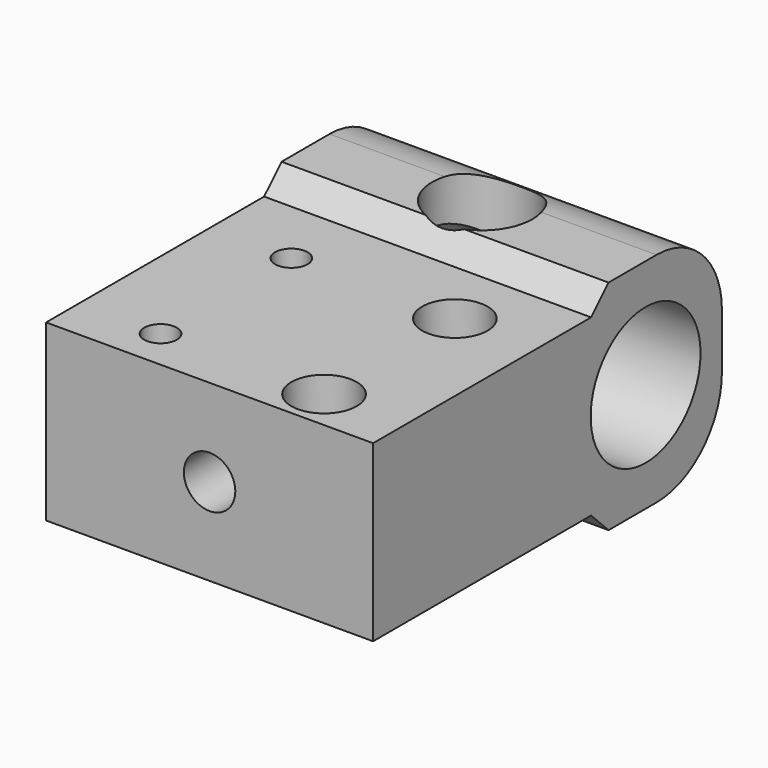
from build123d import *

# Parameters (mm, degrees)
F0_W           = 38.1
F0_H           = 50.8
F1_DEPTH       = 25.4
F2_R           = 8.001
F3_DEPTH       = 38.101
F4_R           = 2.9972
F5_DEPTH       = 32.270091028
F6_R           = 9.525
F8_D           = 3.7973
F8_CSINK_D     = 4.318
F8_CSINK_ANGLE = 90
F9_R           = 3.81
F10_DEPTH      = 8.89
F11_R          = 3.81
F12_DEPTH      = 8.89
F14_DEPTH      = 38.1010001
F15_R          = 5.842
F16_DEPTH      = 25.401


with BuildPart() as f1:
    # F0 (on Top) → F1 (new body)
    with BuildSketch(Plane.XY):
        Rectangle(F0_W, F0_H)
    extrude(amount=F1_DEPTH)

    # F2 (on face) → F3 (cut, through all)
    with BuildSketch(Plane.YZ.offset(19.05)):
        with Locations((14.2875, 12.7)):
            Circle(F2_R)
    extrude(amount=-F3_DEPTH, mode=Mode.SUBTRACT)

    # F4 (on face) → F5 (cut, through all)
    with BuildSketch(Plane.XZ.offset(25.4)):
        with Locations((0, 12.7)):
            Circle(F4_R)
    extrude(amount=-F5_DEPTH, mode=Mode.SUBTRACT)

    # F6
    f6_edges = [f1.edges().sort_by_distance(p)[0] for p in [
        (0, 25.4, 25.4),
        (0, 25.4, 0),
    ]]
    fillet(f6_edges, radius=F6_R)

    # F8 (through all)
    with Locations(Plane.XY.offset(25.4)):
        with Locations((-9.525, -1.5875), (-9.525, -20.6375), (9.525, -20.6375), (9.525, -1.5875)):
            CounterSinkHole(F8_D / 2, F8_CSINK_D / 2, counter_sink_angle=F8_CSINK_ANGLE)

    # F9 (on face) → F10 (cut)
    with BuildSketch(Plane.XY.offset(25.4)):
        with Locations((9.525, -1.5875)):
            Circle(F9_R)
        with Locations((9.525, -20.6375)):
            Circle(F9_R)
    extrude(amount=-F10_DEPTH, mode=Mode.SUBTRACT)

    # F11 (on face) → F12 (cut)
    with BuildSketch(Plane(origin=(0, 0, 0), x_dir=(1, 0, 0), z_dir=(0, 0, -1))):
        with Locations((-9.525, 20.6375)):
            Circle(F11_R)
        with Locations((-9.525, 1.5875)):
            Circle(F11_R)
    extrude(amount=-F12_DEPTH, mode=Mode.SUBTRACT)

    # F13 (on face) → F14 (cut, through all)
    with BuildSketch(Plane(origin=(-19.05, 0, 0), x_dir=(0, -1, 0), z_dir=(-1, 0, 0))):
        Polygon((25.4, 22.86), (25.4, 25.4), (-8.89, 25.4), (-6.35, 22.86), align=None)
        Polygon((-8.89, 0), (25.4, 0), (25.4, 2.54), (-6.35, 2.54), align=None)
    extrude(amount=-F14_DEPTH, mode=Mode.SUBTRACT)

    # F15 (on face) → F16 (cut, through all)
    with BuildSketch(Plane.XY.offset(25.4)):
        with Locations((0, 14.2875)):
            Circle(F15_R)
    extrude(amount=-F16_DEPTH, mode=Mode.SUBTRACT)


solid = f1.part
